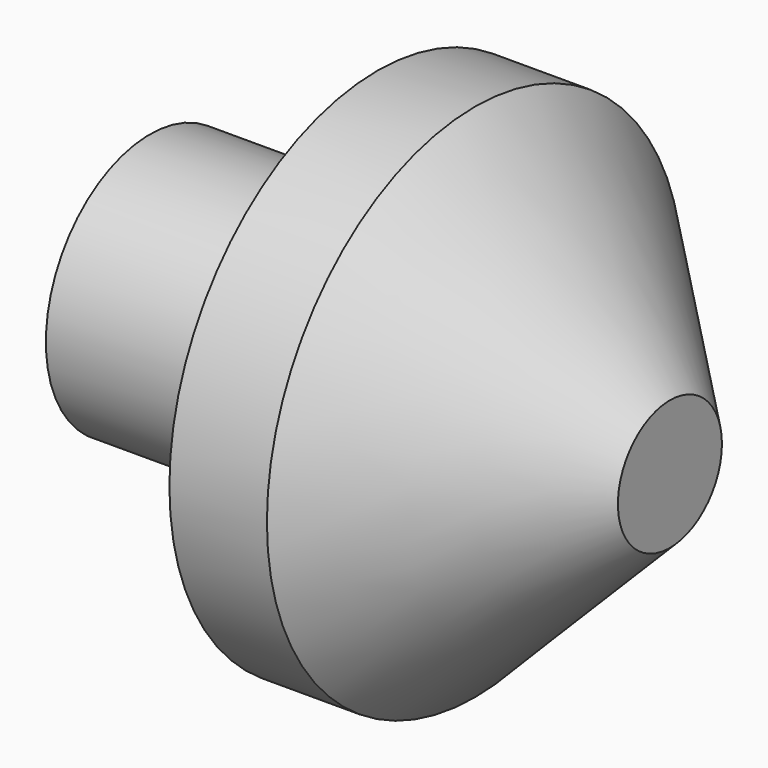
from build123d import *


with BuildPart() as f1:
    # F0 (on Top) → F1 (revolve)
    with BuildSketch(Plane.XY):
        Polygon((-67, 40), (-102, 40), (-102, 25), (-70.660254, 25), (-62, 20), (-22, 20), (-22, 30), (-52, 60), (-67, 60), align=None)
    revolve(axis=Axis((-62, 20, 0), (1, 0, 0)))


solid = f1.part
